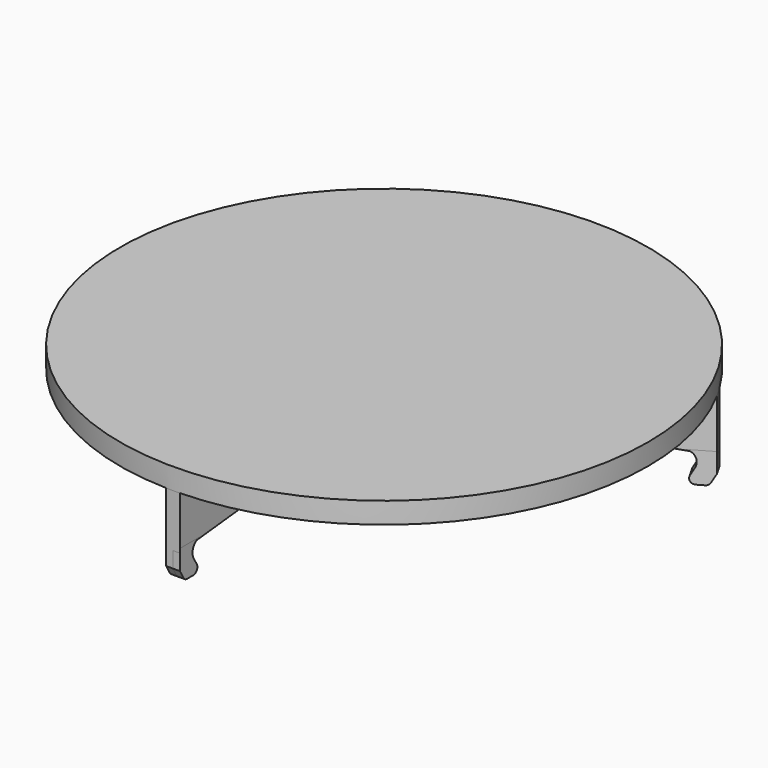
from build123d import *

# Parameters (mm, degrees)
F0_R      = 25
F1_DEPTH  = 2
F3_DEPTH  = 5
F4_COUNT  = 3
F9_DEPTH  = 25
F10_R     = 3.3721537094
F10_R_2   = 2.124818642
F11_DEPTH = 4


with BuildPart() as f1:
    # F0 (on Top) → F1 (new body)
    with BuildSketch(Plane.XY):
        Circle(F0_R)
    extrude(amount=F1_DEPTH)

    # F2 (on face) → F3 (join)
    with BuildSketch(Plane(origin=(0, 0, 0), x_dir=(1, 0, 0), z_dir=(0, 0, -1))):
        with BuildLine():
            ThreePointArc((0.65, 24.9915485715), (0, 25), (-0.65, 24.9915485715))
            Line((-0.65, 24.9915485715), (-0.65, 7.5))
            Line((-0.65, 7.5), (0.65, 7.5))
            Line((0.65, 7.5), (0.65, 24.9915485715))
        make_face()
    extrude(amount=F3_DEPTH)

    # F4: F1 ×3 about axis
    f4_axis = Axis((0, 0, 0), (0, 0, -1))


with BuildPart() as f1_1:
    add(f1.part)
    for i in range(1, F4_COUNT):
        add(f1.part.rotate(f4_axis, i * 360 / F4_COUNT))

    # F5 (on Right) → F6 (revolve, cut)
    with BuildSketch(Plane.YZ):
        with BuildLine():
            Line((-24.9915485715, -5), (-7.5, -5))
            Line((-7.5, -5), (-7.5, -3.5817198365))
            ThreePointArc((-7.5, -3.5817198365), (-16.2642373071, -4.0631567864), (-24.9915485715, -5))
        make_face()
    revolve(axis=Axis((0, 0, 6.1360122636), (0, 0, 1)), mode=Mode.SUBTRACT)

    # F7 (on Right) → F8 (revolve)
    with BuildSketch(Plane.YZ):
        with BuildLine():
            Line((-22.6562518635, -4.6152084697), (-25, -4.6152084697))
            Line((-25, -4.6152084697), (-25, -6.5))
            Line((-25, -6.5), (-24.5669872981, -7.25))
            ThreePointArc((-24.5669872981, -7.25), (-24.3839745962, -7.4330127019), (-24.1339745962, -7.5))
            Line((-24.1339745962, -7.5), (-23.4254495926, -7.5))
            ThreePointArc((-23.4254495926, -7.5), (-22.9924368907, -7.25), (-22.9924368907, -6.75))
            Line((-22.9924368907, -6.75), (-23.3660254038, -6.1029257142))
            ThreePointArc((-23.3660254038, -6.1029257142), (-23.4025454851, -5.1723311865), (-22.6562518635, -4.6152084697))
        make_face()
    revolve(axis=Axis((0, 0, 4.5727211982), (0, 0, 1)))

    # F9 (cut): faces of the model
    f9_faces = [f1_1.faces().sort_by_distance(p)[0] for p in [
        (-20.0039367559, -11.5492782709, -4.6152084697),
        (20.0800258631, 12.8588493661, -4.6152084697),
        (1.0923046782, -23.8192371892, -4.6152084697),
    ]]
    extrude(f9_faces, amount=-F9_DEPTH, mode=Mode.SUBTRACT)

    # F10 (on face) → F11 (join)
    with BuildSketch(Plane(origin=(0, 0, 0), x_dir=(1, 0, 0), z_dir=(0, 0, -1))):
        with Locations((11.2870344892, 6.0402974486)):
            Circle(F10_R)
        with Locations((11.2870344892, 6.0402974486)):
            Circle(F10_R_2, mode=Mode.SUBTRACT)
    extrude(amount=F11_DEPTH)


solid = f1_1.part
